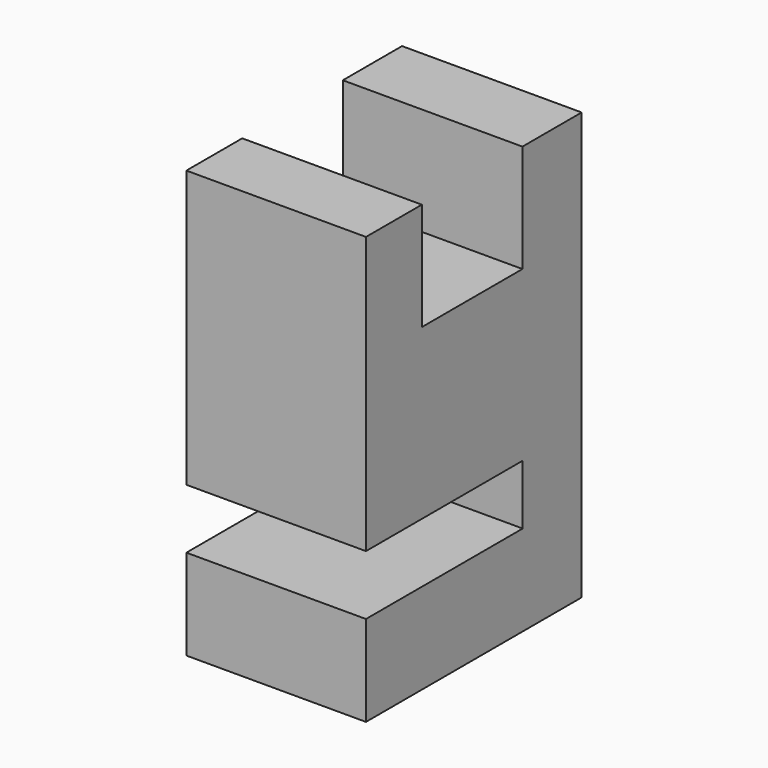
from build123d import *

# Parameters (mm, degrees)
F1_DEPTH = 10
F2_W     = 10
F2_H     = 4.121232
F2_H_2   = 3.88832
F3_DEPTH = 6


with BuildPart() as f1:
    # F0 (on Right) → F1 (new body)
    with BuildSketch(Plane.YZ):
        Polygon((-15.009552, 0), (0, 0), (0, 17.770922), (-15.009552, 17.770922), (-15.009552, 8.370922), (-4.10229, 8.370922), (-4.10229, 5.044594), (-15.009552, 5.044594), align=None)
    extrude(amount=F1_DEPTH)

    # F2 (on face) → F3 (join)
    with BuildSketch(Plane.XY.offset(17.770922)):
        with Locations((5, -2.060616)):
            Rectangle(F2_W, F2_H)
        with Locations((5, -13.065392)):
            Rectangle(F2_W, F2_H_2)
    extrude(amount=F3_DEPTH)


solid = f1.part
